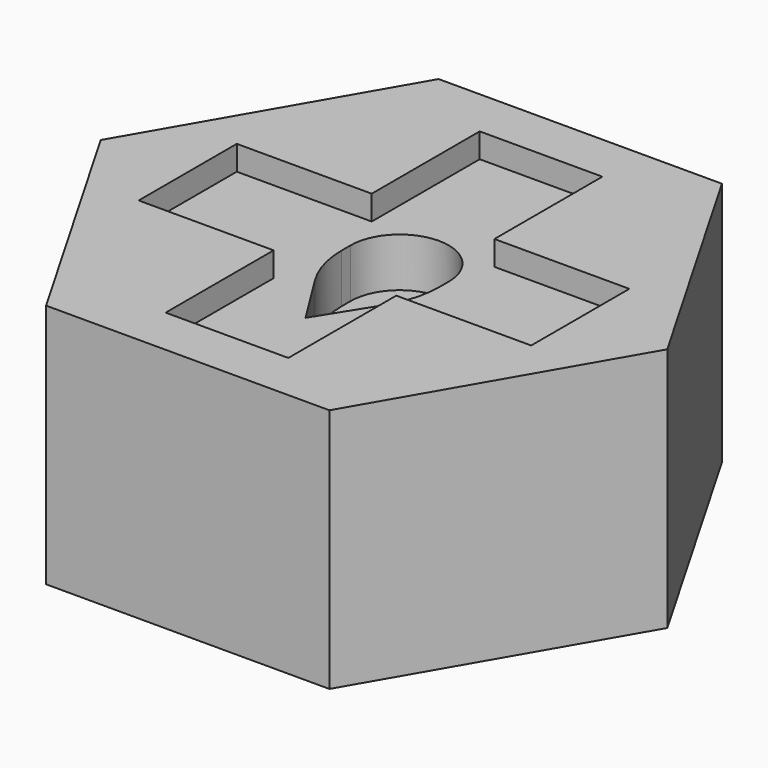
from build123d import *

# Parameters (mm, degrees)
F1_DEPTH = 12.7
F3_DEPTH = 1.27
F5_DEPTH = 2.54


with BuildPart() as f1:
    # F0 (on Top) → F1 (new body)
    with BuildSketch(Plane.XY):
        Polygon((14.664697, 0), (7.332348, 12.7), (-7.332348, 12.7), (-14.664697, 0), (-7.332348, -12.7), (7.332348, -12.7), align=None)
    extrude(amount=F1_DEPTH)

    # F2 (on face) → F3 (cut)
    with BuildSketch(Plane.XY.offset(12.7)):
        Polygon((3.175, 10.16), (-3.175, 10.16), (-3.175, 3.175), (-10.16, 3.175), (-10.16, -3.175), (-3.175, -3.175), (-3.175, -10.16), (3.175, -10.16), (3.175, -3.175), (10.16, -3.175), (10.16, 3.175), (3.175, 3.175), align=None)
    extrude(amount=-F3_DEPTH, mode=Mode.SUBTRACT)

    # F4 (on face) → F5 (cut)
    with BuildSketch(Plane.XY.offset(11.43)):
        with BuildLine():
            Line((2.54, 0.440925), (2.54, 1.016))
            ThreePointArc((2.54, 1.016), (0, 3.556), (-2.54, 1.016))
            Line((-2.54, 1.016), (-2.54, 0.440925))
            ThreePointArc((-2.54, 0.440925), (-2.343144, -0.959542), (-1.767831, -2.25147))
            Line((-1.767831, -2.25147), (0, -5.08))
            Line((0, -5.08), (1.767831, -2.25147))
            ThreePointArc((1.767831, -2.25147), (2.343144, -0.959542), (2.54, 0.440925))
        make_face()
    extrude(amount=-F5_DEPTH, mode=Mode.SUBTRACT)


solid = f1.part
